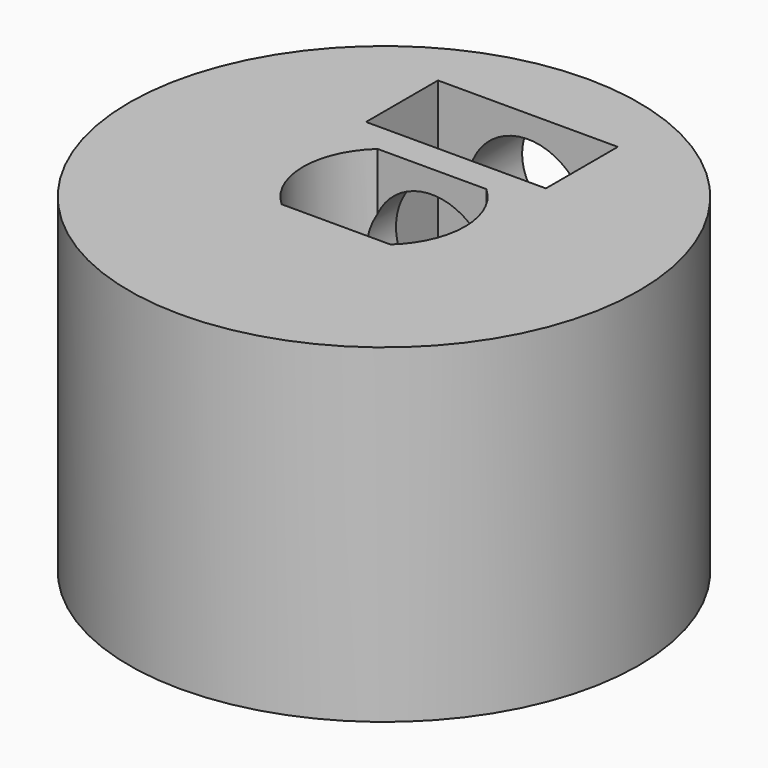
from build123d import *

# Parameters (mm, degrees)
CYLINDER002_R     = 2
CYLINDER002_DEPTH = 10
BOX_W             = 6
BOX_H             = 3
BOX_DEPTH         = 10
CYLINDER_R        = 8.5
CYLINDER_DEPTH    = 11
POCKET_DEPTH      = 6


with BuildPart() as cilindro002:
    # Cylinder002 → Cylinder002 (new body)
    with BuildSketch(Plane(origin=(0, 10.2, 8.25), x_dir=(1, 0, 0), z_dir=(0, -1, 0))):
        Circle(CYLINDER002_R)
    extrude(amount=CYLINDER002_DEPTH)


with BuildPart() as cubo:
    # Box → Box (new body)
    with BuildSketch(Plane(origin=(-3, 3, 2.5), x_dir=(1, 0, 0), z_dir=(0, 0, 1))):
        with Locations((3, 1.5)):
            Rectangle(BOX_W, BOX_H)
    extrude(amount=BOX_DEPTH)


with BuildPart() as body:
    # Cylinder → Cylinder (new body)
    with BuildSketch(Plane.XY):
        Circle(CYLINDER_R)
    extrude(amount=CYLINDER_DEPTH)

    # Cut: cut Cubo
    add(cubo.part, mode=Mode.SUBTRACT)

    # Cut002: cut Cilindro002
    add(cilindro002.part, mode=Mode.SUBTRACT)


with BuildPart() as body_1:
    # Cut002 placement: moved
    add(body.part.moved(Location((0, 0, -1))))


with BuildPart() as body_2:
    # BaseFeature placement: moved
    add(body_1.part.moved(Location((0, 0, 1))))

    # Sketch → Pocket (cut)
    with BuildSketch(Plane.XY.offset(11)):
        with BuildLine():
            ThreePointArc((-1.813836, 2), (-2.7, 0), (-1.813836, -2))
            Line((1.813836, -2), (-1.813836, -2))
            ThreePointArc((1.813836, -2), (2.7, 0), (1.813836, 2))
            Line((-1.813836, 2), (1.813836, 2))
        make_face()
    extrude(amount=-POCKET_DEPTH, mode=Mode.SUBTRACT)


solid = body_2.part
